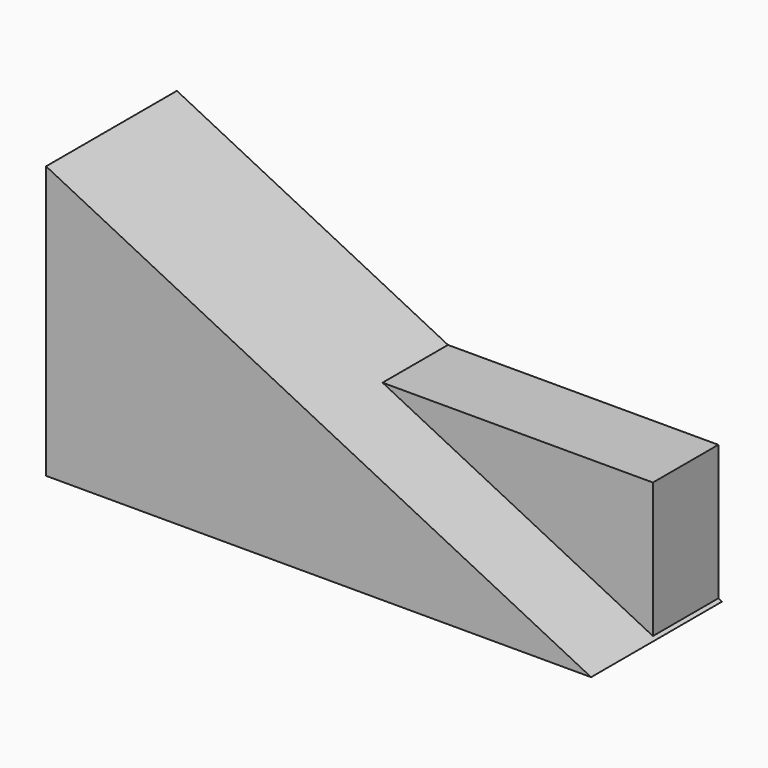
from build123d import *

# Parameters (mm, degrees)
F1_DEPTH = 38.1
F2_W     = 63.5
F2_H     = 31.75
F3_DEPTH = 19.05


with BuildPart() as f1:
    # F0 (on Front) → F1 (new body)
    with BuildSketch(Plane.XZ):
        Polygon((61.612287, -27.667911), (-1.887713, 4.082089), (-1.887713, -27.667911), align=None)
        Polygon((-1.887713, 4.082089), (-65.387713, 35.832089), (-65.387713, -27.667911), (-1.887713, -27.667911), align=None)
    extrude(amount=F1_DEPTH)

    # F2 (on Front) → F3 (join)
    with BuildSketch(Plane.XZ):
        with Locations((29.02056, -11.626451)):
            Rectangle(F2_W, F2_H)
    extrude(amount=F3_DEPTH)


solid = f1.part
